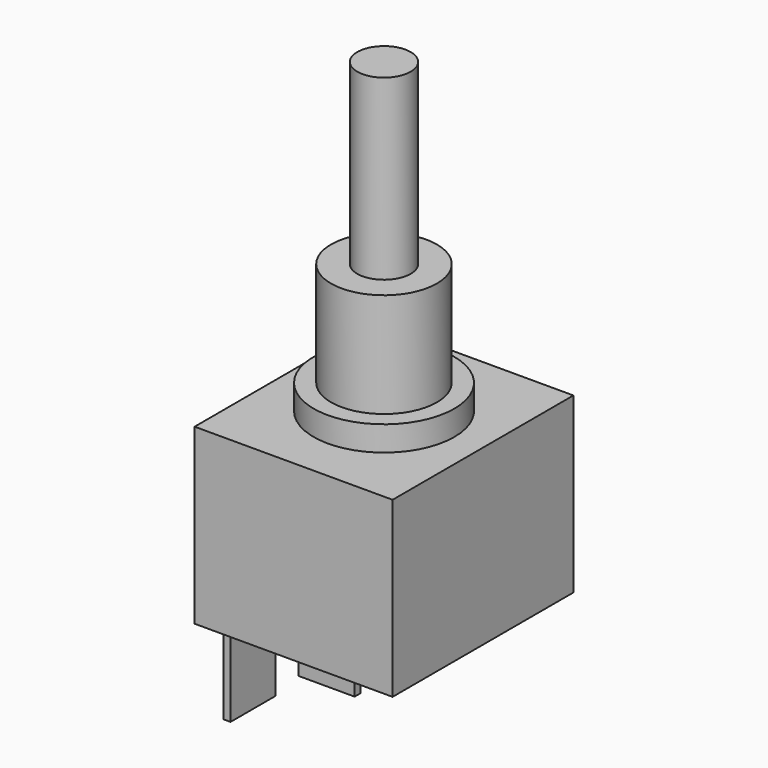
from build123d import *

# Parameters (mm, degrees)
F0_W     = 22.25
F0_H     = 25.4
F1_DEPTH = 19.5
F2_R     = 7.9
F2_R_2   = 5.95
F3_DEPTH = 2.8
F4_R     = 5.95
F5_DEPTH = 11.75
F6_R     = 3
F7_DEPTH = 20
F8_W     = 0.8
F8_H     = 6.3
F8_W_2   = 6.3
F8_H_2   = 0.8
F9_DEPTH = 9.6


with BuildPart() as f1:
    # F0 (on Top) → F1 (new body)
    with BuildSketch(Plane.XY):
        Rectangle(F0_W, F0_H)
    extrude(amount=F1_DEPTH)

    # F2 (on face) → F3 (join)
    with BuildSketch(Plane.XY.offset(19.5)):
        Circle(F2_R)
        Circle(F2_R_2, mode=Mode.SUBTRACT)
        Circle(F2_R_2)
    extrude(amount=F3_DEPTH)

    # F4 (on face) → F5 (join)
    with BuildSketch(Plane.XY.offset(22.3)):
        Circle(F4_R)
    extrude(amount=F5_DEPTH)

    # F6 (on face) → F7 (join)
    with BuildSketch(Plane.XY.offset(34.05)):
        Circle(F6_R)
    extrude(amount=F7_DEPTH)

    # F8 (on face) → F9 (join)
    with BuildSketch(Plane(origin=(0, 0, 0), x_dir=(1, 0, 0), z_dir=(0, 0, -1))):
        with Locations((-8.925, 7.75)):
            Rectangle(F8_W, F8_H)
        with Locations((-6.175, -0.05)):
            Rectangle(F8_W_2, F8_H_2)
    extrude(amount=F9_DEPTH)


solid = f1.part
